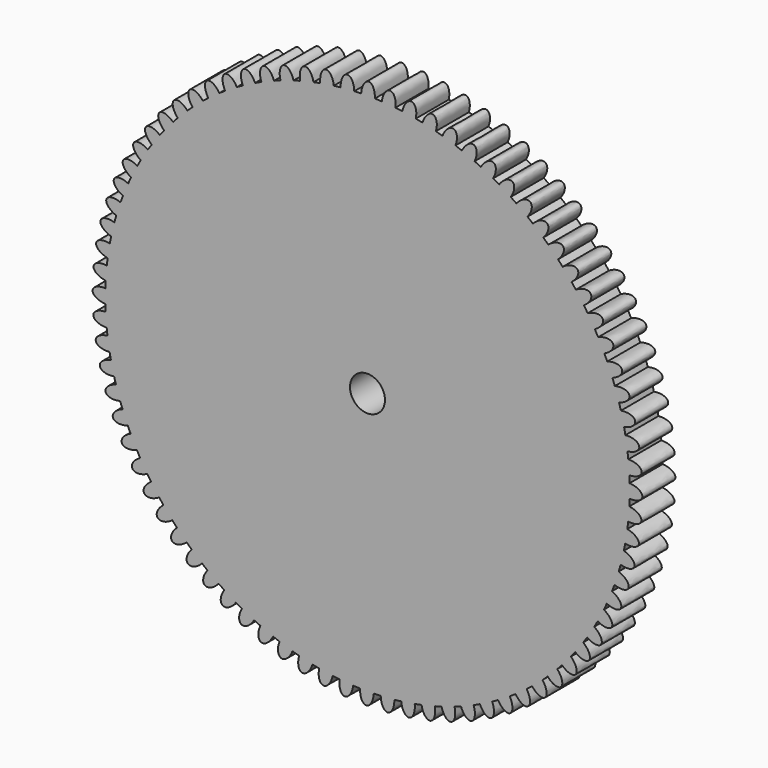
from build123d import *

# Parameters (mm, degrees)
F0_R     = 2.54
F1_DEPTH = 6


with BuildPart() as f1:
    # F0 (on Front) → F1 (new body)
    with BuildSketch(Plane.XZ):
        with BuildLine():
            ThreePointArc((39.5616919388, -20.4872330287), (39.5729927793, -19.9515721628), (39.5767599745, -19.4158053474))
            ThreePointArc((39.5767599745, -19.4158053474), (39.574005675, -18.957689604), (39.5657431748, -18.4996400962))
            ThreePointArc((39.5657431748, -18.4996400962), (39.5503559976, -17.9976072405), (39.5283520507, -17.4958208519))
            ThreePointArc((39.5283520507, -17.4958208519), (39.4653244385, -16.5039382547), (39.376446054, -15.5140371488))
            ThreePointArc((39.376446054, -15.5140371488), (39.3217172664, -15.0147591569), (39.2604114441, -14.5162460181))
            ThreePointArc((39.2604114441, -14.5162460181), (39.1197559133, -13.5323661533), (38.9534847656, -12.5524898999))
            ThreePointArc((38.9534847656, -12.5524898999), (38.8597517888, -12.0590449865), (38.7595220618, -11.5668785967))
            ThreePointArc((38.7595220618, -11.5668785967), (38.5421058006, -10.597067411), (38.2994670066, -9.6332572729))
            ThreePointArc((38.2994670066, -9.6332572729), (38.1673077356, -9.1486876902), (38.0287720535, -8.6659024188))
            ThreePointArc((38.0287720535, -8.6659024188), (37.7359355054, -7.7161391206), (37.4184250139, -6.7743373079))
            ThreePointArc((37.4184250139, -6.7743373079), (37.2486542546, -6.3016305883), (37.072666736, -5.8312029672))
            ThreePointArc((37.072666736, -5.8312029672), (36.7062153356, -4.907343163), (36.3157907044, -3.993356197))
            ThreePointArc((36.3157907044, -3.993356197), (36.10945515, -3.5354267348), (35.8971008164, -3.0802571066))
            ThreePointArc((35.8971008164, -3.0802571066), (35.4592938586, -2.1879966993), (34.9983621854, -1.3074596137))
            ThreePointArc((34.9983621854, -1.3074596137), (34.7567339631, -0.8671306961), (34.5093220496, -0.430025333))
            ThreePointArc((34.5093220496, -0.430025333), (34.0028587598, 0.4251345952), (33.4742618417, 1.2667929966))
            ThreePointArc((33.4742618417, 1.2667929966), (33.1988306698, 1.6868065952), (32.9178865531, 2.1031527934))
            ThreePointArc((32.9178865531, 2.1031527934), (32.345889446, 2.9159398972), (31.7528862587, 3.7135305104))
            ThreePointArc((31.7528862587, 3.7135305104), (31.4453502621, 4.1106392666), (31.1326060561, 4.503659387))
            ThreePointArc((31.1326060561, 4.503659387), (30.498601684, 5.2690625637), (29.8448482893, 6.0176679774))
            ThreePointArc((29.8448482893, 6.0176679774), (29.5071035296, 6.3894235836), (29.1644874064, 6.7566945266))
            ThreePointArc((29.1644874064, 6.7566945266), (28.4723846171, 7.4699948109), (27.7619116221, 8.1649996238))
            ThreePointArc((27.7619116221, 8.1649996238), (27.3960404081, 8.5091100831), (27.02566471, 8.8483675012))
            ThreePointArc((27.02566471, 8.8483675012), (26.2797305473, 9.5051671598), (25.5169182543, 10.1422864361))
            ThreePointArc((25.5169182543, 10.1422864361), (25.1251763037, 10.4566301931), (24.72932452, 10.7657824514))
            ThreePointArc((24.72932452, 10.7657824514), (23.9341579161, 11.362032096), (23.1237093165, 11.9373377834))
            ThreePointArc((23.1237093165, 11.9373377834), (22.7085118487, 12.2199768043), (22.2896245374, 12.4971178764))
            ThreePointArc((22.2896245374, 12.4971178764), (21.4501279588, 13.0291414296), (20.5970397378, 13.5390865774))
            ThreePointArc((20.5970397378, 13.5390865774), (20.1609465832, 13.7882782986), (19.7216063237, 14.0316995176))
            ThreePointArc((19.7216063237, 14.0316995176), (18.842955546, 14.4962168773), (17.9524872761, 14.937657504))
            ThreePointArc((17.9524872761, 14.937657504), (17.498187094, 15.1518655758), (17.0411025653, 15.3600661689))
            ThreePointArc((17.0411025653, 15.3600661689), (16.1287147627, 15.7542134312), (15.2063564769, 16.1244279085))
            ThreePointArc((15.2063564769, 16.1244279085), (14.7366501791, 16.3023316668), (14.2646394591, 16.4740280081))
            ThreePointArc((14.2646394591, 16.4740280081), (13.3241398058, 16.795375124), (12.3755781497, 17.0920809566))
            ThreePointArc((12.3755781497, 17.0920809566), (11.8933616316, 17.2325835656), (11.4093348235, 17.3667170902))
            ThreePointArc((11.4093348235, 17.3667170902), (10.4465218126, 17.6132828478), (9.4776049842, 17.8346507455))
            ThreePointArc((9.4776049842, 17.8346507455), (8.9858512711, 17.9368859599), (8.492792561, 18.0326296899))
            ThreePointArc((8.492792561, 18.0326296899), (7.513602255, 18.2028939294), (6.5303039487, 18.3475590856))
            ThreePointArc((6.5303039487, 18.3475590856), (6.0320448657, 18.4108965913), (5.5329941246, 18.4676602348))
            ThreePointArc((5.5329941246, 18.4676602348), (4.5434635572, 18.5605732205), (3.5518461341, 18.6276437264))
            ThreePointArc((3.5518461341, 18.6276437264), (3.0501536141, 18.6516930266), (2.5481876558, 18.6691266169))
            ThreePointArc((2.5481876558, 18.6691266169), (1.5544176121, 18.6841155094), (0.5605947233, 18.6731778529))
            ThreePointArc((0.5605947233, 18.6731778529), (0.0585618676, 18.6577906757), (-0.443224521, 18.6357867288))
            ThreePointArc((-0.443224521, 18.6357867288), (-1.4351071182, 18.5727591166), (-2.4250082241, 18.4838807321))
            ThreePointArc((-2.4250082241, 18.4838807321), (-2.924286216, 18.4291519445), (-3.4227993549, 18.3678461222))
            ThreePointArc((-3.4227993549, 18.3678461222), (-4.4066792196, 18.2271905914), (-5.3865554731, 18.0609194437))
            ThreePointArc((-5.3865554731, 18.0609194437), (-5.8800003864, 17.967186467), (-6.3721667762, 17.86695674))
            ThreePointArc((-6.3721667762, 17.86695674), (-7.3419779619, 17.6495404787), (-8.3057881, 17.4069016847))
            ThreePointArc((-8.3057881, 17.4069016847), (-8.7903576828, 17.2747424137), (-9.2731429541, 17.1362067316))
            ThreePointArc((-9.2731429541, 17.1362067316), (-10.2229062523, 16.8433701835), (-11.164708065, 16.525859692))
            ThreePointArc((-11.164708065, 16.525859692), (-11.6374147846, 16.3560889327), (-12.1078424057, 16.1801014141))
            ThreePointArc((-12.1078424057, 16.1801014141), (-13.0317022099, 15.8136500138), (-13.9456891759, 15.4232253826))
            ThreePointArc((-13.9456891759, 15.4232253826), (-14.4036186381, 15.2168898281), (-14.8587882663, 15.0045354945))
            ThreePointArc((-14.8587882663, 15.0045354945), (-15.7510486736, 14.5667285367), (-16.6315857593, 14.1057968635))
            ThreePointArc((-16.6315857593, 14.1057968635), (-17.0719146768, 13.8641686412), (-17.5090200399, 13.6167567277))
            ThreePointArc((-17.5090200399, 13.6167567277), (-18.3641799681, 13.110293438), (-19.2058383695, 12.5816965198))
            ThreePointArc((-19.2058383695, 12.5816965198), (-19.6258519681, 12.3062653479), (-20.0421981663, 12.0253212313))
            ThreePointArc((-20.0421981663, 12.0253212313), (-20.8549852701, 11.4533241242), (-21.6525758834, 10.8603209368))
            ThreePointArc((-21.6525758834, 10.8603209368), (-22.0496846395, 10.5527849402), (-22.44270476, 10.2400407342))
            ThreePointArc((-22.44270476, 10.2400407342), (-23.2081079366, 9.6060363621), (-23.9567133503, 8.9522829674))
            ThreePointArc((-23.9567133503, 8.9522829674), (-24.3284689565, 8.6145382077), (-24.6957398995, 8.2719220845))
            ThreePointArc((-24.6957398995, 8.2719220845), (-25.4090401839, 7.5798192952), (-26.1040449968, 6.8693463002))
            ThreePointArc((-26.1040449968, 6.8693463002), (-26.4481554561, 6.5034750862), (-26.7874128741, 6.1330993881))
            ThreePointArc((-26.7874128741, 6.1330993881), (-27.4442125327, 5.3871652254), (-28.081331809, 4.6243529324))
            ThreePointArc((-28.081331809, 4.6243529324), (-28.395675566, 4.2326109818), (-28.7048278243, 3.8367591982))
            ThreePointArc((-28.7048278243, 3.8367591982), (-29.3010774689, 3.0415925943), (-29.8763831564, 2.2311439947))
            ThreePointArc((-29.8763831564, 2.2311439947), (-30.1590221772, 1.8159465268), (-30.4361632493, 1.3970592155))
            ThreePointArc((-30.4361632493, 1.3970592155), (-30.9681868025, 0.5575626369), (-31.4781319503, -0.2955255841))
            ThreePointArc((-31.4781319503, -0.2955255841), (-31.7273236715, -0.7316187387), (-31.9707448905, -1.1709589982))
            ThreePointArc((-31.9707448905, -1.1709589982), (-32.4352622503, -2.0496097759), (-32.8767028769, -2.9400780458))
            ThreePointArc((-32.8767028769, -2.9400780458), (-33.0909109487, -3.3943782278), (-33.2991115418, -3.8514627566))
            ThreePointArc((-33.2991115418, -3.8514627566), (-33.6932588041, -4.7638505592), (-34.0634732814, -5.686208845))
            ThreePointArc((-34.0634732814, -5.686208845), (-34.2413770397, -6.1559151428), (-34.4130733811, -6.6279258628))
            ThreePointArc((-34.4130733811, -6.6279258628), (-34.7344204969, -7.5684255161), (-35.0311263295, -8.5169871722))
            ThreePointArc((-35.0311263295, -8.5169871722), (-35.1716289385, -8.9992036903), (-35.3057624631, -9.4832304984))
            ThreePointArc((-35.3057624631, -9.4832304984), (-35.5523282207, -10.4460435092), (-35.7736961184, -11.4149603377))
            ThreePointArc((-35.7736961184, -11.4149603377), (-35.8759313328, -11.9067140508), (-35.9716750629, -12.3997727609))
            ThreePointArc((-35.9716750629, -12.3997727609), (-36.1419393023, -13.3789630669), (-36.2866044585, -14.3622613732))
            ThreePointArc((-36.2866044585, -14.3622613732), (-36.3499419642, -14.8605204562), (-36.4067056077, -15.3595711973))
            ThreePointArc((-36.4067056077, -15.3595711973), (-36.4996185935, -16.3491017647), (-36.5666890993, -17.3407191878))
            ThreePointArc((-36.5666890993, -17.3407191878), (-36.5907383995, -17.8424117078), (-36.6081719898, -18.3443776661))
            ThreePointArc((-36.6081719898, -18.3443776661), (-36.6231608823, -19.3381477098), (-36.6122232258, -20.3319705986))
            ThreePointArc((-36.6122232258, -20.3319705986), (-36.5968360486, -20.8340034543), (-36.5748321018, -21.3357898429))
            ThreePointArc((-36.5748321018, -21.3357898429), (-36.5118044895, -22.3276724401), (-36.422926105, -23.317573546))
            ThreePointArc((-36.422926105, -23.317573546), (-36.3681973175, -23.8168515379), (-36.3068914952, -24.3153646767))
            ThreePointArc((-36.3068914952, -24.3153646767), (-36.1662359643, -25.2992445415), (-35.9999648166, -26.279120795))
            ThreePointArc((-35.9999648166, -26.279120795), (-35.9062318399, -26.7725657083), (-35.8060021129, -27.2647320981))
            ThreePointArc((-35.8060021129, -27.2647320981), (-35.5885858516, -28.2345432838), (-35.3459470576, -29.1983534219))
            ThreePointArc((-35.3459470576, -29.1983534219), (-35.2137877867, -29.6829230046), (-35.0752521046, -30.165708276))
            ThreePointArc((-35.0752521046, -30.165708276), (-34.7824155564, -31.1154715742), (-34.4649050649, -32.0572733869))
            ThreePointArc((-34.4649050649, -32.0572733869), (-34.2951343056, -32.5299801065), (-34.119146787, -33.0004077276))
            ThreePointArc((-34.119146787, -33.0004077276), (-33.7526953867, -33.9242675318), (-33.3622707555, -34.8382544978))
            ThreePointArc((-33.3622707555, -34.8382544978), (-33.155935201, -35.29618396), (-32.9435808674, -35.7513535882))
            ThreePointArc((-32.9435808674, -35.7513535882), (-32.5057739097, -36.6436139955), (-32.0448422364, -37.5241510811))
            ThreePointArc((-32.0448422364, -37.5241510811), (-31.8032140141, -37.9644799987), (-31.5558021006, -38.4015853618))
            ThreePointArc((-31.5558021006, -38.4015853618), (-31.0493388109, -39.25674529), (-30.5207418927, -40.0984036914))
            ThreePointArc((-30.5207418927, -40.0984036914), (-30.2453107209, -40.51841729), (-29.9643666042, -40.9347634882))
            ThreePointArc((-29.9643666042, -40.9347634882), (-29.3923694971, -41.747550592), (-28.7993663097, -42.5451412052))
            ThreePointArc((-28.7993663097, -42.5451412052), (-28.4918303131, -42.9422499614), (-28.1790861072, -43.3352700818))
            ThreePointArc((-28.1790861072, -43.3352700818), (-27.5450817351, -44.1006732585), (-26.8913283403, -44.8492786722))
            ThreePointArc((-26.8913283403, -44.8492786722), (-26.5535835806, -45.2210342784), (-26.2109674575, -45.5883052214))
            ThreePointArc((-26.2109674575, -45.5883052214), (-25.5188646682, -46.3016055057), (-24.8083916731, -46.9966103187))
            ThreePointArc((-24.8083916731, -46.9966103187), (-24.4425204591, -47.3407207779), (-24.0721447611, -47.679978196))
            ThreePointArc((-24.0721447611, -47.679978196), (-23.3262105984, -48.3367778546), (-22.5633983053, -48.9738971309))
            ThreePointArc((-22.5633983053, -48.9738971309), (-22.1716563547, -49.2882408879), (-21.7758045711, -49.5973931462))
            ThreePointArc((-21.7758045711, -49.5973931462), (-20.9806379672, -50.1936427908), (-20.1701893676, -50.7689484782))
            ThreePointArc((-20.1701893676, -50.7689484782), (-19.7549918998, -51.0515874991), (-19.3361045884, -51.3287285712))
            ThreePointArc((-19.3361045884, -51.3287285712), (-18.4966080098, -51.8607521244), (-17.6435197888, -52.3706972722))
            ThreePointArc((-17.6435197888, -52.3706972722), (-17.2074266342, -52.6198889934), (-16.7680863747, -52.8633102124))
            ThreePointArc((-16.7680863747, -52.8633102124), (-15.8894355971, -53.3278275721), (-14.9989673271, -53.7692681988))
            ThreePointArc((-14.9989673271, -53.7692681988), (-14.5446671451, -53.9834762706), (-14.0875826163, -54.1916768637))
            ThreePointArc((-14.0875826163, -54.1916768637), (-13.1751948137, -54.585824126), (-12.2528365279, -54.9560386033))
            ThreePointArc((-12.2528365279, -54.9560386033), (-11.7831302301, -55.1339423616), (-11.3111195101, -55.3056387029))
            ThreePointArc((-11.3111195101, -55.3056387029), (-10.3706198569, -55.6269858188), (-9.4220582007, -55.9236916514))
            ThreePointArc((-9.4220582007, -55.9236916514), (-8.9398416826, -56.0641942604), (-8.4558148745, -56.198327785))
            ThreePointArc((-8.4558148745, -56.198327785), (-7.4930018637, -56.4448935426), (-6.5240850352, -56.6662614403))
            ThreePointArc((-6.5240850352, -56.6662614403), (-6.0323313221, -56.7684966547), (-5.539272612, -56.8642403847))
            ThreePointArc((-5.539272612, -56.8642403847), (-4.560082306, -57.0345046242), (-3.5767839997, -57.1791697804))
            ThreePointArc((-3.5767839997, -57.1791697804), (-3.0785249167, -57.2425072861), (-2.5794741756, -57.2992709296))
            ThreePointArc((-2.5794741756, -57.2992709296), (-1.5899436083, -57.3921839153), (-0.5983261851, -57.4592544212))
            ThreePointArc((-0.5983261851, -57.4592544212), (-0.0966336652, -57.4833037214), (0.4053322932, -57.5007373117))
            ThreePointArc((0.4053322932, -57.5007373117), (1.3991023369, -57.5157262042), (2.3929252257, -57.5047885477))
            ThreePointArc((2.3929252257, -57.5047885477), (2.8949580814, -57.4894013705), (3.3967444699, -57.4673974236))
            ThreePointArc((3.3967444699, -57.4673974236), (4.3886270672, -57.4043698114), (5.3785281731, -57.3154914269))
            ThreePointArc((5.3785281731, -57.3154914269), (5.877806165, -57.2607626393), (6.3763193038, -57.199456817))
            ThreePointArc((6.3763193038, -57.199456817), (7.3601991686, -57.0588012862), (8.340075422, -56.8925301385))
            ThreePointArc((8.340075422, -56.8925301385), (8.8335203354, -56.7987971618), (9.3256867252, -56.6985674348))
            ThreePointArc((9.3256867252, -56.6985674348), (10.2954979109, -56.4811511735), (11.259308049, -56.2385123795))
            ThreePointArc((11.259308049, -56.2385123795), (11.7438776317, -56.1063531085), (12.226662903, -55.9678174264))
            ThreePointArc((12.226662903, -55.9678174264), (13.1764262013, -55.6749808783), (14.118228014, -55.3574703868))
            ThreePointArc((14.118228014, -55.3574703868), (14.5909347336, -55.1876996275), (15.0613623547, -55.0117121089))
            ThreePointArc((15.0613623547, -55.0117121089), (15.9852221589, -54.6452607086), (16.8992091249, -54.2548360774))
            ThreePointArc((16.8992091249, -54.2548360774), (17.3571385871, -54.0485005229), (17.8123082153, -53.8361461893))
            ThreePointArc((17.8123082153, -53.8361461893), (18.7045686225, -53.3983392315), (19.5851057082, -52.9374075583))
            ThreePointArc((19.5851057082, -52.9374075583), (20.0254346257, -52.695779336), (20.4625399889, -52.4483674225))
            ThreePointArc((20.4625399889, -52.4483674225), (21.3176999171, -51.9419041328), (22.1593583185, -51.4133072146))
            ThreePointArc((22.1593583185, -51.4133072146), (22.5793719171, -51.1378760427), (22.9957181152, -50.8569319261))
            ThreePointArc((22.9957181152, -50.8569319261), (23.808505219, -50.284934819), (24.6060958323, -49.6919316316))
            ThreePointArc((24.6060958323, -49.6919316316), (25.0032045885, -49.384395635), (25.3962247089, -49.071651429))
            ThreePointArc((25.3962247089, -49.071651429), (26.1616278855, -48.4376470569), (26.9102332993, -47.7838936622))
            ThreePointArc((26.9102332993, -47.7838936622), (27.2819889055, -47.4461489025), (27.6492598485, -47.1035327794))
            ThreePointArc((27.6492598485, -47.1035327794), (28.3625601328, -46.41142999), (29.0575649457, -45.700956995))
            ThreePointArc((29.0575649457, -45.700956995), (29.401675405, -45.335085781), (29.7409328231, -44.9647100829))
            ThreePointArc((29.7409328231, -44.9647100829), (30.3977324817, -44.2187759203), (31.034851758, -43.4559636272))
            ThreePointArc((31.034851758, -43.4559636272), (31.349195515, -43.0642216766), (31.6583477732, -42.668369893))
            ThreePointArc((31.6583477732, -42.668369893), (32.2545974178, -41.8732032891), (32.8299031053, -41.0627546895))
            ThreePointArc((32.8299031053, -41.0627546895), (33.1125421262, -40.6475572216), (33.3896831983, -40.2286699103))
            ThreePointArc((33.3896831983, -40.2286699103), (33.9217067515, -39.3891733317), (34.4316518993, -38.5360851107))
            ThreePointArc((34.4316518993, -38.5360851107), (34.6808436205, -38.0999919561), (34.9242648395, -37.6606516966))
            ThreePointArc((34.9242648395, -37.6606516966), (35.3887821992, -36.7820009189), (35.8302228259, -35.891532649))
            ThreePointArc((35.8302228259, -35.891532649), (36.0444308976, -35.437232467), (36.2526314908, -34.9801479382))
            ThreePointArc((36.2526314908, -34.9801479382), (36.646778753, -34.0677601356), (37.0169932303, -33.1454018498))
            ThreePointArc((37.0169932303, -33.1454018498), (37.1948969886, -32.675695552), (37.36659333, -32.203684832))
            ThreePointArc((37.36659333, -32.203684832), (37.6879404459, -31.2631851787), (37.9846462785, -30.3146235226))
            ThreePointArc((37.9846462785, -30.3146235226), (38.1251488875, -29.8324070045), (38.259282412, -29.3483801964))
            ThreePointArc((38.259282412, -29.3483801964), (38.5058481697, -28.3855671856), (38.7272160674, -27.4166503571))
            ThreePointArc((38.7272160674, -27.4166503571), (38.8294512818, -26.924896644), (38.9251950118, -26.4318379339))
            ThreePointArc((38.9251950118, -26.4318379339), (39.0954592513, -25.4526476279), (39.2401244075, -24.4693493216))
            ThreePointArc((39.2401244075, -24.4693493216), (39.3034619132, -23.9710902386), (39.3602255567, -23.4720394975))
            ThreePointArc((39.3602255567, -23.4720394975), (39.4531385424, -22.4825089301), (39.5202090483, -21.490891507))
            ThreePointArc((39.5202090483, -21.490891507), (39.5442583485, -20.989198987), (39.5616919388, -20.4872330287))
        make_face()
        with Locations((1.4767599745, -19.4158053474)):
            Circle(F0_R, mode=Mode.SUBTRACT)
        with BuildLine():
            ThreePointArc((39.5657431748, -18.4996400962), (39.574005675, -18.957689604), (39.5767599745, -19.4158053474))
            ThreePointArc((39.5767599745, -19.4158053474), (39.5729927793, -19.9515721628), (39.5616919388, -20.4872330287))
            add(Edge.make_bspline(
                [(39.5616919388, -20.4872330287), (41.4276455288, -20.6001162686), (41.4296854159, -19.5993192024), (41.4317253029, -18.5985221361), (39.5657431748, -18.4996400962)],
                knots=[1.6047124244, 1.6047124244, 1.6047124244, 3.1825038327, 3.1825038327, 4.7602952411, 4.7602952411, 4.7602952411], degree=2, weights=[1, 0.7046293265, 1, 0.7046293265, 1]))
        make_face()
        with BuildLine():
            ThreePointArc((39.376446054, -15.5140371488), (39.4653244385, -16.5039382547), (39.5283520507, -17.4958208519))
            add(Edge.make_bspline(
                [(39.5283520507, -17.4958208519), (41.3974102455, -17.4619550791), (41.3209222114, -16.4640830886), (41.2444341774, -15.466211098), (39.376446054, -15.5140371488)],
                knots=[1.6047124244, 1.6047124244, 1.6047124244, 3.1825038327, 3.1825038327, 4.7602952411, 4.7602952411, 4.7602952411], degree=2, weights=[1, 0.7046293265, 1, 0.7046293265, 1]))
        make_face()
        with BuildLine():
            add(Edge.make_bspline(
                [(39.3602255567, -23.4720394975), (41.2115703176, -23.7309757874), (41.2921255492, -22.7334238922), (41.3726807808, -21.735871997), (39.5202090483, -21.490891507)],
                knots=[1.6047124244, 1.6047124244, 1.6047124244, 3.1825038327, 3.1825038327, 4.7602952411, 4.7602952411, 4.7602952411], degree=2, weights=[1, 0.7046293265, 1, 0.7046293265, 1]))
            ThreePointArc((39.5202090483, -21.490891507), (39.4531385424, -22.4825089301), (39.3602255567, -23.4720394975))
        make_face()
        with BuildLine():
            ThreePointArc((38.9534847656, -12.5524898999), (39.1197559133, -13.5323661533), (39.2604114441, -14.5162460181))
            add(Edge.make_bspline(
                [(39.2604114441, -14.5162460181), (41.1210508783, -14.3358400263), (40.9665064973, -13.3470453241), (40.8119621163, -12.3582506218), (38.9534847656, -12.5524898999)],
                knots=[1.6047124244, 1.6047124244, 1.6047124244, 3.1825038327, 3.1825038327, 4.7602952411, 4.7602952411, 4.7602952411], degree=2, weights=[1, 0.7046293265, 1, 0.7046293265, 1]))
        make_face()
        with BuildLine():
            add(Edge.make_bspline(
                [(38.9251950118, -26.4318379339), (40.7505167875, -26.8352308454), (40.9090907139, -25.8470743605), (41.0676646402, -24.8589178755), (39.2401244075, -24.4693493216)],
                knots=[1.6047124244, 1.6047124244, 1.6047124244, 3.1825038327, 3.1825038327, 4.7602952411, 4.7602952411, 4.7602952411], degree=2, weights=[1, 0.7046293265, 1, 0.7046293265, 1]))
            ThreePointArc((39.2401244075, -24.4693493216), (39.0954592513, -25.4526476279), (38.9251950118, -26.4318379339))
        make_face()
        with BuildLine():
            ThreePointArc((38.2994670066, -9.6332572729), (38.5421058006, -10.597067411), (38.7595220618, -11.5668785967))
            add(Edge.make_bspline(
                [(38.7595220618, -11.5668785967), (40.6002712746, -11.2410446489), (40.3686233642, -10.2674234832), (40.1369754538, -9.2938023174), (38.2994670066, -9.6332572729)],
                knots=[1.6047124244, 1.6047124244, 1.6047124244, 3.1825038327, 3.1825038327, 4.7602952411, 4.7602952411, 4.7602952411], degree=2, weights=[1, 0.7046293265, 1, 0.7046293265, 1]))
        make_face()
        with BuildLine():
            add(Edge.make_bspline(
                [(38.259282412, -29.3483801964), (40.0473274868, -29.8937426781), (40.2829424469, -28.9210739167), (40.518557407, -27.9484051553), (38.7272160674, -27.4166503571)],
                knots=[1.6047124244, 1.6047124244, 1.6047124244, 3.1825038327, 3.1825038327, 4.7602952411, 4.7602952411, 4.7602952411], degree=2, weights=[1, 0.7046293265, 1, 0.7046293265, 1]))
            ThreePointArc((38.7272160674, -27.4166503571), (38.5058481697, -28.3855671856), (38.259282412, -29.3483801964))
        make_face()
        with BuildLine():
            ThreePointArc((37.4184250139, -6.7743373079), (37.7359355054, -7.7161391206), (38.0287720535, -8.6659024188))
            add(Edge.make_bspline(
                [(38.0287720535, -8.6659024188), (39.8382822139, -8.1966493897), (39.5309589604, -7.2442044586), (39.2236357069, -6.2917595275), (37.4184250139, -6.7743373079)],
                knots=[1.6047124244, 1.6047124244, 1.6047124244, 3.1825038327, 3.1825038327, 4.7602952411, 4.7602952411, 4.7602952411], degree=2, weights=[1, 0.7046293265, 1, 0.7046293265, 1]))
        make_face()
        with BuildLine():
            add(Edge.make_bspline(
                [(37.36659333, -32.203684832), (39.1063378114, -32.8876545429), (39.4175411607, -31.9364703314), (39.7287445099, -30.9852861198), (37.9846462785, -30.3146235226)],
                knots=[1.6047124244, 1.6047124244, 1.6047124244, 3.1825038327, 3.1825038327, 4.7602952411, 4.7602952411, 4.7602952411], degree=2, weights=[1, 0.7046293265, 1, 0.7046293265, 1]))
            ThreePointArc((37.9846462785, -30.3146235226), (37.6879404459, -31.2631851787), (37.36659333, -32.203684832))
        make_face()
        with BuildLine():
            ThreePointArc((36.3157907044, -3.993356197), (36.7062153356, -4.907343163), (37.072666736, -5.8312029672))
            add(Edge.make_bspline(
                [(37.072666736, -5.8312029672), (38.8397816121, -5.2214239576), (38.4586777656, -4.296027401), (38.0775739191, -3.3706308443), (36.3157907044, -3.993356197)],
                knots=[1.6047124244, 1.6047124244, 1.6047124244, 3.1825038327, 3.1825038327, 4.7602952411, 4.7602952411, 4.7602952411], degree=2, weights=[1, 0.7046293265, 1, 0.7046293265, 1]))
        make_face()
        with BuildLine():
            add(Edge.make_bspline(
                [(36.2526314908, -34.9801479382), (37.9333492755, -35.7985079775), (38.3182223418, -34.8746726829), (38.7030954081, -33.9508373882), (37.0169932303, -33.1454018498)],
                knots=[1.6047124244, 1.6047124244, 1.6047124244, 3.1825038327, 3.1825038327, 4.7602952411, 4.7602952411, 4.7602952411], degree=2, weights=[1, 0.7046293265, 1, 0.7046293265, 1]))
            ThreePointArc((37.0169932303, -33.1454018498), (36.646778753, -34.0677601356), (36.2526314908, -34.9801479382))
        make_face()
        with BuildLine():
            ThreePointArc((34.9983621854, -1.3074596137), (35.4592938586, -2.1879966993), (35.8971008164, -3.0802571066))
            add(Edge.make_bspline(
                [(35.8971008164, -3.0802571066), (37.6109255574, -2.333711607), (37.1583907499, -1.4410688023), (36.7058559423, -0.5484259975), (34.9983621854, -1.3074596137)],
                knots=[1.6047124244, 1.6047124244, 1.6047124244, 3.1825038327, 3.1825038327, 4.7602952411, 4.7602952411, 4.7602952411], degree=2, weights=[1, 0.7046293265, 1, 0.7046293265, 1]))
        make_face()
        with BuildLine():
            add(Edge.make_bspline(
                [(34.9242648395, -37.6606516966), (36.5355937435, -38.6083566027), (36.9917636564, -37.7175659766), (37.4479335694, -36.8267753506), (35.8302228259, -35.891532649)],
                knots=[1.6047124244, 1.6047124244, 1.6047124244, 3.1825038327, 3.1825038327, 4.7602952411, 4.7602952411, 4.7602952411], degree=2, weights=[1, 0.7046293265, 1, 0.7046293265, 1]))
            ThreePointArc((35.8302228259, -35.891532649), (35.3887821992, -36.7820009189), (34.9242648395, -37.6606516966))
        make_face()
        with BuildLine():
            ThreePointArc((33.4742618417, 1.2667929966), (34.0028587598, 0.4251345952), (34.5093220496, -0.430025333))
            add(Edge.make_bspline(
                [(34.5093220496, -0.430025333), (36.1592903561, 0.4486839554), (35.6381146151, 1.3030695685), (35.116938874, 2.1574551816), (33.4742618417, 1.2667929966)],
                knots=[1.6047124244, 1.6047124244, 1.6047124244, 3.1825038327, 3.1825038327, 4.7602952411, 4.7602952411, 4.7602952411], degree=2, weights=[1, 0.7046293265, 1, 0.7046293265, 1]))
        make_face()
        with BuildLine():
            add(Edge.make_bspline(
                [(33.3896831983, -40.2286699103), (34.9216888431, -41.2998767671), (35.4463431634, -40.4476228302), (35.9709974837, -39.5953688932), (34.4316518993, -38.5360851107)],
                knots=[1.6047124244, 1.6047124244, 1.6047124244, 3.1825038327, 3.1825038327, 4.7602952411, 4.7602952411, 4.7602952411], degree=2, weights=[1, 0.7046293265, 1, 0.7046293265, 1]))
            ThreePointArc((34.4316518993, -38.5360851107), (33.9217067515, -39.3891733317), (33.3896831983, -40.2286699103))
        make_face()
        with BuildLine():
            ThreePointArc((31.7528862587, 3.7135305104), (32.345889446, 2.9159398972), (32.9178865531, 2.1031527934))
            add(Edge.make_bspline(
                [(32.9178865531, 2.1031527934), (34.4938258218, 3.1086083356), (33.9072223691, 3.9194691856), (33.3206189163, 4.7303300356), (31.7528862587, 3.7135305104)],
                knots=[1.6047124244, 1.6047124244, 1.6047124244, 3.1825038327, 3.1825038327, 4.7602952411, 4.7602952411, 4.7602952411], degree=2, weights=[1, 0.7046293265, 1, 0.7046293265, 1]))
        make_face()
        with BuildLine():
            add(Edge.make_bspline(
                [(31.6583477732, -42.668369893), (33.1015848347, -43.8564743541), (33.691488894, -43.0480115351), (34.2813929534, -42.2395487162), (32.8299031053, -41.0627546895)],
                knots=[1.6047124244, 1.6047124244, 1.6047124244, 3.1825038327, 3.1825038327, 4.7602952411, 4.7602952411, 4.7602952411], degree=2, weights=[1, 0.7046293265, 1, 0.7046293265, 1]))
            ThreePointArc((32.8299031053, -41.0627546895), (32.2545974178, -41.8732032891), (31.6583477732, -42.668369893))
        make_face()
        with BuildLine():
            ThreePointArc((29.8448482893, 6.0176679774), (30.498601684, 5.2690625637), (31.1326060561, 4.503659387))
            add(Edge.make_bspline(
                [(31.1326060561, 4.503659387), (32.6248000973, 5.6296622153), (31.9763855382, 6.3919990755), (31.3279709791, 7.1543359357), (29.8448482893, 6.0176679774)],
                knots=[1.6047124244, 1.6047124244, 1.6047124244, 3.1825038327, 3.1825038327, 4.7602952411, 4.7602952411, 4.7602952411], degree=2, weights=[1, 0.7046293265, 1, 0.7046293265, 1]))
        make_face()
        with BuildLine():
            add(Edge.make_bspline(
                [(29.7409328231, -44.9647100829), (31.0865032646, -46.2623870893), (31.7380201083, -45.5026998305), (32.3895369521, -44.7430125716), (31.034851758, -43.4559636272)],
                knots=[1.6047124244, 1.6047124244, 1.6047124244, 3.1825038327, 3.1825038327, 4.7602952411, 4.7602952411, 4.7602952411], degree=2, weights=[1, 0.7046293265, 1, 0.7046293265, 1]))
            ThreePointArc((31.034851758, -43.4559636272), (30.3977324817, -44.2187759203), (29.7409328231, -44.9647100829))
        make_face()
        with BuildLine():
            ThreePointArc((27.7619116221, 8.1649996238), (28.4723846171, 7.4699948109), (29.1644874064, 6.7566945266))
            add(Edge.make_bspline(
                [(29.1644874064, 6.7566945266), (30.5637363477, 7.9963024591), (29.8575083736, 8.7054152692), (29.1512803995, 9.4145280793), (27.7619116221, 8.1649996238)],
                knots=[1.6047124244, 1.6047124244, 1.6047124244, 3.1825038327, 3.1825038327, 4.7602952411, 4.7602952411, 4.7602952411], degree=2, weights=[1, 0.7046293265, 1, 0.7046293265, 1]))
        make_face()
        with BuildLine():
            add(Edge.make_bspline(
                [(27.6492598485, -47.1035327794), (28.8888677809, -48.5027817206), (29.597980591, -47.7965537465), (30.3070934011, -47.0903257724), (29.0575649457, -45.700956995)],
                knots=[1.6047124244, 1.6047124244, 1.6047124244, 3.1825038327, 3.1825038327, 4.7602952411, 4.7602952411, 4.7602952411], degree=2, weights=[1, 0.7046293265, 1, 0.7046293265, 1]))
            ThreePointArc((29.0575649457, -45.700956995), (28.3625601328, -46.41142999), (27.6492598485, -47.1035327794))
        make_face()
        with BuildLine():
            ThreePointArc((25.5169182543, 10.1422864361), (26.2797305473, 9.5051671598), (27.02566471, 8.8483675012))
            add(Edge.make_bspline(
                [(27.02566471, 8.8483675012), (28.3233417164, 10.1939379427), (27.5636544575, 10.8454547865), (26.8039671987, 11.4969716302), (25.5169182543, 10.1422864361)],
                knots=[1.6047124244, 1.6047124244, 1.6047124244, 3.1825038327, 3.1825038327, 4.7602952411, 4.7602952411, 4.7602952411], degree=2, weights=[1, 0.7046293265, 1, 0.7046293265, 1]))
        make_face()
        with BuildLine():
            add(Edge.make_bspline(
                [(25.3962247089, -49.071651429), (26.5222275372, -50.5638454703), (27.2845643974, -49.9154309111), (28.0469012576, -49.267016352), (26.9102332993, -47.7838936622)],
                knots=[1.6047124244, 1.6047124244, 1.6047124244, 3.1825038327, 3.1825038327, 4.7602952411, 4.7602952411, 4.7602952411], degree=2, weights=[1, 0.7046293265, 1, 0.7046293265, 1]))
            ThreePointArc((26.9102332993, -47.7838936622), (26.1616278855, -48.4376470569), (25.3962247089, -49.071651429))
        make_face()
        with BuildLine():
            ThreePointArc((23.1237093165, 11.9373377834), (23.9341579161, 11.362032096), (24.72932452, 10.7657824514))
            add(Edge.make_bspline(
                [(24.72932452, 10.7657824514), (25.9174289812, 12.2090195128), (25.1089661622, 12.7989235721), (24.3005033433, 13.3888276315), (23.1237093165, 11.9373377834)],
                knots=[1.6047124244, 1.6047124244, 1.6047124244, 3.1825038327, 3.1825038327, 4.7602952411, 4.7602952411, 4.7602952411], degree=2, weights=[1, 0.7046293265, 1, 0.7046293265, 1]))
        make_face()
        with BuildLine():
            add(Edge.make_bspline(
                [(22.9957181152, -50.8569319261), (24.0011736575, -52.4328711948), (24.8120345075, -51.846267742), (25.6228953575, -51.2596642892), (24.6060958323, -49.6919316316)],
                knots=[1.6047124244, 1.6047124244, 1.6047124244, 3.1825038327, 3.1825038327, 4.7602952411, 4.7602952411, 4.7602952411], degree=2, weights=[1, 0.7046293265, 1, 0.7046293265, 1]))
            ThreePointArc((24.6060958323, -49.6919316316), (23.808505219, -50.284934819), (22.9957181152, -50.8569319261))
        make_face()
        with BuildLine():
            ThreePointArc((20.5970397378, 13.5390865774), (21.4501279588, 13.0291414296), (22.2896245374, 12.4971178764))
            add(Edge.make_bspline(
                [(22.2896245374, 12.4971178764), (23.3608313942, 14.0291235212), (22.5085774572, 14.5537778415), (21.6563235203, 15.0784321619), (20.5970397378, 13.5390865774)],
                knots=[1.6047124244, 1.6047124244, 1.6047124244, 3.1825038327, 3.1825038327, 4.7602952411, 4.7602952411, 4.7602952411], degree=2, weights=[1, 0.7046293265, 1, 0.7046293265, 1]))
        make_face()
        with BuildLine():
            add(Edge.make_bspline(
                [(20.4625399889, -52.4483674225), (21.3412492773, -54.098335729), (22.1956348904, -53.577159988), (23.0500205034, -53.055984247), (22.1593583185, -51.4133072146)],
                knots=[1.6047124244, 1.6047124244, 1.6047124244, 3.1825038327, 3.1825038327, 4.7602952411, 4.7602952411, 4.7602952411], degree=2, weights=[1, 0.7046293265, 1, 0.7046293265, 1]))
            ThreePointArc((22.1593583185, -51.4133072146), (21.3176999171, -51.9419041328), (20.4625399889, -52.4483674225))
        make_face()
        with BuildLine():
            ThreePointArc((17.9524872761, 14.937657504), (18.842955546, 14.4962168773), (19.7216063237, 14.0316995176))
            add(Edge.make_bspline(
                [(19.7216063237, 14.0316995176), (20.6693112297, 15.6430284216), (19.7785206037, 16.0991983346), (18.8877299777, 16.5553682475), (17.9524872761, 14.937657504)],
                knots=[1.6047124244, 1.6047124244, 1.6047124244, 3.1825038327, 3.1825038327, 4.7602952411, 4.7602952411, 4.7602952411], degree=2, weights=[1, 0.7046293265, 1, 0.7046293265, 1]))
        make_face()
        with BuildLine():
            add(Edge.make_bspline(
                [(17.8123082153, -53.8361461893), (18.5588537149, -55.5499709303), (19.4514965196, -55.0974361228), (20.3441393244, -54.6449013153), (19.5851057082, -52.9374075583)],
                knots=[1.6047124244, 1.6047124244, 1.6047124244, 3.1825038327, 3.1825038327, 4.7602952411, 4.7602952411, 4.7602952411], degree=2, weights=[1, 0.7046293265, 1, 0.7046293265, 1]))
            ThreePointArc((19.5851057082, -52.9374075583), (18.7045686225, -53.3983392315), (17.8123082153, -53.8361461893))
        make_face()
        with BuildLine():
            ThreePointArc((15.2063564769, 16.1244279085), (16.1287147627, 15.7542134312), (17.0411025653, 15.3600661689))
            add(Edge.make_bspline(
                [(17.0411025653, 15.3600661689), (17.8594626046, 17.0407839536), (16.9356273099, 17.4256570199), (16.0117920152, 17.8105300862), (15.2063564769, 16.1244279085)],
                knots=[1.6047124244, 1.6047124244, 1.6047124244, 3.1825038327, 3.1825038327, 4.7602952411, 4.7602952411, 4.7602952411], degree=2, weights=[1, 0.7046293265, 1, 0.7046293265, 1]))
        make_face()
        with BuildLine():
            add(Edge.make_bspline(
                [(15.0613623547, -55.0117121089), (15.6711413642, -56.778826985), (16.5965379209, -56.3977231385), (17.5219344775, -56.016619292), (16.8992091249, -54.2548360774)],
                knots=[1.6047124244, 1.6047124244, 1.6047124244, 3.1825038327, 3.1825038327, 4.7602952411, 4.7602952411, 4.7602952411], degree=2, weights=[1, 0.7046293265, 1, 0.7046293265, 1]))
            ThreePointArc((16.8992091249, -54.2548360774), (15.9852221589, -54.6452607086), (15.0613623547, -55.0117121089))
        make_face()
        with BuildLine():
            ThreePointArc((12.3755781497, 17.0920809566), (13.3241398058, 16.795375124), (14.2646394591, 16.4740280081))
            add(Edge.make_bspline(
                [(14.2646394591, 16.4740280081), (14.94860917, 18.2137724895), (13.9974249584, 18.5249758388), (13.0462407469, 18.8361791881), (12.3755781497, 17.0920809566)],
                knots=[1.6047124244, 1.6047124244, 1.6047124244, 3.1825038327, 3.1825038327, 4.7602952411, 4.7602952411, 4.7602952411], degree=2, weights=[1, 0.7046293265, 1, 0.7046293265, 1]))
        make_face()
        with BuildLine():
            add(Edge.make_bspline(
                [(12.226662903, -55.9678174264), (12.6959159322, -57.7773275869), (13.6483608633, -57.4700043334), (14.6008057944, -57.1626810799), (14.118228014, -55.3574703868)],
                knots=[1.6047124244, 1.6047124244, 1.6047124244, 3.1825038327, 3.1825038327, 4.7602952411, 4.7602952411, 4.7602952411], degree=2, weights=[1, 0.7046293265, 1, 0.7046293265, 1]))
            ThreePointArc((14.118228014, -55.3574703868), (13.1764262013, -55.6749808783), (12.226662903, -55.9678174264))
        make_face()
        with BuildLine():
            ThreePointArc((9.4776049842, 17.8346507455), (10.4465218126, 17.6132828478), (11.4093348235, 17.3667170902))
            add(Edge.make_bspline(
                [(11.4093348235, 17.3667170902), (11.9546973052, 19.1547621649), (10.9820285438, 19.390377125), (10.0093597823, 19.6259920851), (9.4776049842, 17.8346507455)],
                knots=[1.6047124244, 1.6047124244, 1.6047124244, 3.1825038327, 3.1825038327, 4.7602952411, 4.7602952411, 4.7602952411], degree=2, weights=[1, 0.7046293265, 1, 0.7046293265, 1]))
        make_face()
        with BuildLine():
            add(Edge.make_bspline(
                [(9.3256867252, -56.6985674348), (9.6515206729, -58.5393166476), (10.6251418387, -58.3076687371), (11.5987630045, -58.0760208267), (11.259308049, -56.2385123795)],
                knots=[1.6047124244, 1.6047124244, 1.6047124244, 3.1825038327, 3.1825038327, 4.7602952411, 4.7602952411, 4.7602952411], degree=2, weights=[1, 0.7046293265, 1, 0.7046293265, 1]))
            ThreePointArc((11.259308049, -56.2385123795), (10.2954979109, -56.4811511735), (9.3256867252, -56.6985674348))
        make_face()
        with BuildLine():
            ThreePointArc((6.5303039487, 18.3475590856), (7.513602255, 18.2028939294), (8.492792561, 18.0326296899))
            add(Edge.make_bspline(
                [(8.492792561, 18.0326296899), (8.8961854725, 19.8579514656), (7.9080289876, 20.016525392), (6.9198725026, 20.1750993183), (6.5303039487, 18.3475590856)],
                knots=[1.6047124244, 1.6047124244, 1.6047124244, 3.1825038327, 3.1825038327, 4.7602952411, 4.7602952411, 4.7602952411], degree=2, weights=[1, 0.7046293265, 1, 0.7046293265, 1]))
        make_face()
        with BuildLine():
            add(Edge.make_bspline(
                [(6.3763193038, -57.199456817), (6.5567252956, -59.0600962512), (7.5455199978, -58.9055518702), (8.5343147001, -58.7510074892), (8.340075422, -56.8925301385)],
                knots=[1.6047124244, 1.6047124244, 1.6047124244, 3.1825038327, 3.1825038327, 4.7602952411, 4.7602952411, 4.7602952411], degree=2, weights=[1, 0.7046293265, 1, 0.7046293265, 1]))
            ThreePointArc((8.340075422, -56.8925301385), (7.3601991686, -57.0588012862), (6.3763193038, -57.199456817))
        make_face()
        with BuildLine():
            ThreePointArc((3.5518461341, 18.6276437264), (4.5434635572, 18.5605732205), (5.5329941246, 18.4676602348))
            add(Edge.make_bspline(
                [(5.5329941246, 18.4676602348), (5.7919304144, 20.3190049957), (4.7943785193, 20.3995602273), (3.7968266241, 20.4801154589), (3.5518461341, 18.6276437264)],
                knots=[1.6047124244, 1.6047124244, 1.6047124244, 3.1825038327, 3.1825038327, 4.7602952411, 4.7602952411, 4.7602952411], degree=2, weights=[1, 0.7046293265, 1, 0.7046293265, 1]))
        make_face()
        with BuildLine():
            add(Edge.make_bspline(
                [(3.3967444699, -57.4673974236), (3.4306102428, -59.3364556184), (4.4284822333, -59.2599675844), (5.4263542239, -59.1834795503), (5.3785281731, -57.3154914269)],
                knots=[1.6047124244, 1.6047124244, 1.6047124244, 3.1825038327, 3.1825038327, 4.7602952411, 4.7602952411, 4.7602952411], degree=2, weights=[1, 0.7046293265, 1, 0.7046293265, 1]))
            ThreePointArc((5.3785281731, -57.3154914269), (4.3886270672, -57.4043698114), (3.3967444699, -57.4673974236))
        make_face()
        with BuildLine():
            ThreePointArc((0.5605947233, 18.6731778529), (1.5544176121, 18.6841155094), (2.5481876558, 18.6691266169))
            add(Edge.make_bspline(
                [(2.5481876558, 18.6691266169), (2.6610708956, 20.5350802069), (1.6602738294, 20.537120094), (0.6594767632, 20.539159981), (0.5605947233, 18.6731778529)],
                knots=[1.6047124244, 1.6047124244, 1.6047124244, 3.1825038327, 3.1825038327, 4.7602952411, 4.7602952411, 4.7602952411], degree=2, weights=[1, 0.7046293265, 1, 0.7046293265, 1]))
        make_face()
        with BuildLine():
            add(Edge.make_bspline(
                [(0.4053322932, -57.5007373117), (0.2924490533, -59.3666909017), (1.2932461195, -59.3687307888), (2.2940431857, -59.3707706758), (2.3929252257, -57.5047885477)],
                knots=[1.6047124244, 1.6047124244, 1.6047124244, 3.1825038327, 3.1825038327, 4.7602952411, 4.7602952411, 4.7602952411], degree=2, weights=[1, 0.7046293265, 1, 0.7046293265, 1]))
            ThreePointArc((2.3929252257, -57.5047885477), (1.3991023369, -57.5157262042), (0.4053322932, -57.5007373117))
        make_face()
        with BuildLine():
            ThreePointArc((-2.4250082241, 18.4838807321), (-1.4351071182, 18.5727591166), (-0.443224521, 18.6357867288))
            add(Edge.make_bspline(
                [(-0.443224521, 18.6357867288), (-0.4770902938, 20.5048449236), (-1.4749622844, 20.4283568896), (-2.4728342749, 20.3518688555), (-2.4250082241, 18.4838807321)],
                knots=[1.6047124244, 1.6047124244, 1.6047124244, 3.1825038327, 3.1825038327, 4.7602952411, 4.7602952411, 4.7602952411], degree=2, weights=[1, 0.7046293265, 1, 0.7046293265, 1]))
        make_face()
        with BuildLine():
            add(Edge.make_bspline(
                [(-2.5794741756, -57.2992709296), (-2.8384104655, -59.1506156905), (-1.8408585703, -59.2311709221), (-0.8433066751, -59.3117261537), (-0.5983261851, -57.4592544212)],
                knots=[1.6047124244, 1.6047124244, 1.6047124244, 3.1825038327, 3.1825038327, 4.7602952411, 4.7602952411, 4.7602952411], degree=2, weights=[1, 0.7046293265, 1, 0.7046293265, 1]))
            ThreePointArc((-0.5983261851, -57.4592544212), (-1.5899436083, -57.3921839153), (-2.5794741756, -57.2992709296))
        make_face()
        with BuildLine():
            ThreePointArc((-5.3865554731, 18.0609194437), (-4.4066792196, 18.2271905914), (-3.4227993549, 18.3678461222))
            add(Edge.make_bspline(
                [(-3.4227993549, 18.3678461222), (-3.6032053466, 20.2284855564), (-4.5920000489, 20.0739411754), (-5.5807947511, 19.9193967944), (-5.3865554731, 18.0609194437)],
                knots=[1.6047124244, 1.6047124244, 1.6047124244, 3.1825038327, 3.1825038327, 4.7602952411, 4.7602952411, 4.7602952411], degree=2, weights=[1, 0.7046293265, 1, 0.7046293265, 1]))
        make_face()
        with BuildLine():
            add(Edge.make_bspline(
                [(-5.539272612, -56.8642403847), (-5.9426655236, -58.6895621604), (-4.9545090386, -58.8481360868), (-3.9663525536, -59.0067100131), (-3.5767839997, -57.1791697804)],
                knots=[1.6047124244, 1.6047124244, 1.6047124244, 3.1825038327, 3.1825038327, 4.7602952411, 4.7602952411, 4.7602952411], degree=2, weights=[1, 0.7046293265, 1, 0.7046293265, 1]))
            ThreePointArc((-3.5767839997, -57.1791697804), (-4.560082306, -57.0345046242), (-5.539272612, -56.8642403847))
        make_face()
        with BuildLine():
            ThreePointArc((-8.3057881, 17.4069016847), (-7.3419779619, 17.6495404787), (-6.3721667762, 17.86695674))
            add(Edge.make_bspline(
                [(-6.3721667762, 17.86695674), (-6.698000724, 19.7077059528), (-7.6716218898, 19.4760580423), (-8.6452430556, 19.2444101319), (-8.3057881, 17.4069016847)],
                knots=[1.6047124244, 1.6047124244, 1.6047124244, 3.1825038327, 3.1825038327, 4.7602952411, 4.7602952411, 4.7602952411], degree=2, weights=[1, 0.7046293265, 1, 0.7046293265, 1]))
        make_face()
        with BuildLine():
            add(Edge.make_bspline(
                [(-8.4558148745, -56.198327785), (-9.0011773563, -57.9863728598), (-8.0285085948, -58.2219878198), (-7.0558398334, -58.4576027799), (-6.5240850352, -56.6662614403)],
                knots=[1.6047124244, 1.6047124244, 1.6047124244, 3.1825038327, 3.1825038327, 4.7602952411, 4.7602952411, 4.7602952411], degree=2, weights=[1, 0.7046293265, 1, 0.7046293265, 1]))
            ThreePointArc((-6.5240850352, -56.6662614403), (-7.4930018637, -56.4448935426), (-8.4558148745, -56.198327785))
        make_face()
        with BuildLine():
            ThreePointArc((-11.164708065, 16.525859692), (-10.2229062523, 16.8433701835), (-9.2731429541, 17.1362067316))
            add(Edge.make_bspline(
                [(-9.2731429541, 17.1362067316), (-9.7423959832, 18.945716892), (-10.6948409143, 18.6383936386), (-11.6472858454, 18.3310703851), (-11.164708065, 16.525859692)],
                knots=[1.6047124244, 1.6047124244, 1.6047124244, 3.1825038327, 3.1825038327, 4.7602952411, 4.7602952411, 4.7602952411], degree=2, weights=[1, 0.7046293265, 1, 0.7046293265, 1]))
        make_face()
        with BuildLine():
            add(Edge.make_bspline(
                [(-11.3111195101, -55.3056387029), (-11.995089221, -57.0453831843), (-11.0439050095, -57.3565865336), (-10.0927207979, -57.6677898829), (-9.4220582007, -55.9236916514)],
                knots=[1.6047124244, 1.6047124244, 1.6047124244, 3.1825038327, 3.1825038327, 4.7602952411, 4.7602952411, 4.7602952411], degree=2, weights=[1, 0.7046293265, 1, 0.7046293265, 1]))
            ThreePointArc((-9.4220582007, -55.9236916514), (-10.3706198569, -55.6269858188), (-11.3111195101, -55.3056387029))
        make_face()
        with BuildLine():
            ThreePointArc((-13.9456891759, 15.4232253826), (-13.0317022099, 15.8136500138), (-12.1078424057, 16.1801014141))
            add(Edge.make_bspline(
                [(-12.1078424057, 16.1801014141), (-12.7176214153, 17.9472162902), (-13.6430179719, 17.5661124437), (-14.5684145286, 17.1850085972), (-13.9456891759, 15.4232253826)],
                knots=[1.6047124244, 1.6047124244, 1.6047124244, 3.1825038327, 3.1825038327, 4.7602952411, 4.7602952411, 4.7602952411], degree=2, weights=[1, 0.7046293265, 1, 0.7046293265, 1]))
        make_face()
        with BuildLine():
            add(Edge.make_bspline(
                [(-14.0875826163, -54.1916768637), (-14.9059426557, -55.8723946484), (-13.982107361, -56.2572677147), (-13.0582720663, -56.6421407811), (-12.2528365279, -54.9560386033)],
                knots=[1.6047124244, 1.6047124244, 1.6047124244, 3.1825038327, 3.1825038327, 4.7602952411, 4.7602952411, 4.7602952411], degree=2, weights=[1, 0.7046293265, 1, 0.7046293265, 1]))
            ThreePointArc((-12.2528365279, -54.9560386033), (-13.1751948137, -54.585824126), (-14.0875826163, -54.1916768637))
        make_face()
        with BuildLine():
            ThreePointArc((-16.6315857593, 14.1057968635), (-15.7510486736, 14.5667285367), (-14.8587882663, 15.0045354945))
            add(Edge.make_bspline(
                [(-14.8587882663, 15.0045354945), (-15.6053337659, 16.7183602355), (-16.4979765707, 16.265825428), (-17.3906193754, 15.8132906205), (-16.6315857593, 14.1057968635)],
                knots=[1.6047124244, 1.6047124244, 1.6047124244, 3.1825038327, 3.1825038327, 4.7602952411, 4.7602952411, 4.7602952411], degree=2, weights=[1, 0.7046293265, 1, 0.7046293265, 1]))
        make_face()
        with BuildLine():
            add(Edge.make_bspline(
                [(-16.7680863747, -52.8633102124), (-17.7157912808, -54.4746391164), (-16.8250006547, -54.9308090294), (-15.9342100287, -55.3869789423), (-14.9989673271, -53.7692681988)],
                knots=[1.6047124244, 1.6047124244, 1.6047124244, 3.1825038327, 3.1825038327, 4.7602952411, 4.7602952411, 4.7602952411], degree=2, weights=[1, 0.7046293265, 1, 0.7046293265, 1]))
            ThreePointArc((-14.9989673271, -53.7692681988), (-15.8894355971, -53.3278275721), (-16.7680863747, -52.8633102124))
        make_face()
        with BuildLine():
            ThreePointArc((-19.2058383695, 12.5816965198), (-18.3641799681, 13.110293438), (-17.5090200399, 13.6167567277))
            add(Edge.make_bspline(
                [(-17.5090200399, 13.6167567277), (-18.3877293283, 15.2667250342), (-19.2421149414, 14.7455492932), (-20.0965005545, 14.2243735522), (-19.2058383695, 12.5816965198)],
                knots=[1.6047124244, 1.6047124244, 1.6047124244, 3.1825038327, 3.1825038327, 4.7602952411, 4.7602952411, 4.7602952411], degree=2, weights=[1, 0.7046293265, 1, 0.7046293265, 1]))
        make_face()
        with BuildLine():
            add(Edge.make_bspline(
                [(-19.3361045884, -51.3287285712), (-20.4073114452, -52.860734216), (-19.5550575083, -53.3853885363), (-18.7028035713, -53.9100428567), (-17.6435197888, -52.3706972722)],
                knots=[1.6047124244, 1.6047124244, 1.6047124244, 3.1825038327, 3.1825038327, 4.7602952411, 4.7602952411, 4.7602952411], degree=2, weights=[1, 0.7046293265, 1, 0.7046293265, 1]))
            ThreePointArc((-17.6435197888, -52.3706972722), (-18.4966080098, -51.8607521244), (-19.3361045884, -51.3287285712))
        make_face()
        with BuildLine():
            ThreePointArc((-21.6525758834, 10.8603209368), (-20.8549852701, 11.4533241242), (-20.0421981663, 12.0253212313))
            add(Edge.make_bspline(
                [(-20.0421981663, 12.0253212313), (-21.0476537085, 13.6012605), (-21.8585145585, 13.0146570472), (-22.6693754086, 12.4280535944), (-21.6525758834, 10.8603209368)],
                knots=[1.6047124244, 1.6047124244, 1.6047124244, 3.1825038327, 3.1825038327, 4.7602952411, 4.7602952411, 4.7602952411], degree=2, weights=[1, 0.7046293265, 1, 0.7046293265, 1]))
        make_face()
        with BuildLine():
            add(Edge.make_bspline(
                [(-21.7758045711, -49.5973931462), (-22.9639090322, -51.0406302076), (-22.1554462133, -51.6305342669), (-21.3469833943, -52.2204383263), (-20.1701893676, -50.7689484782)],
                knots=[1.6047124244, 1.6047124244, 1.6047124244, 3.1825038327, 3.1825038327, 4.7602952411, 4.7602952411, 4.7602952411], degree=2, weights=[1, 0.7046293265, 1, 0.7046293265, 1]))
            ThreePointArc((-20.1701893676, -50.7689484782), (-20.9806379672, -50.1936427908), (-21.7758045711, -49.5973931462))
        make_face()
        with BuildLine():
            ThreePointArc((-23.9567133503, 8.9522829674), (-23.2081079366, 9.6060363621), (-22.44270476, 10.2400407342))
            add(Edge.make_bspline(
                [(-22.44270476, 10.2400407342), (-23.5687075883, 11.7322347755), (-24.3310444484, 11.0838202163), (-25.0933813086, 10.4354056572), (-23.9567133503, 8.9522829674)],
                knots=[1.6047124244, 1.6047124244, 1.6047124244, 3.1825038327, 3.1825038327, 4.7602952411, 4.7602952411, 4.7602952411], degree=2, weights=[1, 0.7046293265, 1, 0.7046293265, 1]))
        make_face()
        with BuildLine():
            add(Edge.make_bspline(
                [(-24.0721447611, -47.679978196), (-25.3698217674, -49.0255486375), (-24.6101345086, -49.6770654813), (-23.8504472497, -50.328582325), (-22.5633983053, -48.9738971309)],
                knots=[1.6047124244, 1.6047124244, 1.6047124244, 3.1825038327, 3.1825038327, 4.7602952411, 4.7602952411, 4.7602952411], degree=2, weights=[1, 0.7046293265, 1, 0.7046293265, 1]))
            ThreePointArc((-22.5633983053, -48.9738971309), (-23.3262105984, -48.3367778546), (-24.0721447611, -47.679978196))
        make_face()
        with BuildLine():
            ThreePointArc((-26.1040449968, 6.8693463002), (-25.4090401839, 7.5798192952), (-24.6957398995, 8.2719220845))
            add(Edge.make_bspline(
                [(-24.6957398995, 8.2719220845), (-25.935347832, 9.6711710258), (-26.6444606421, 8.9649430517), (-27.3535734522, 8.2587150776), (-26.1040449968, 6.8693463002)],
                knots=[1.6047124244, 1.6047124244, 1.6047124244, 3.1825038327, 3.1825038327, 4.7602952411, 4.7602952411, 4.7602952411], degree=2, weights=[1, 0.7046293265, 1, 0.7046293265, 1]))
        make_face()
        with BuildLine():
            add(Edge.make_bspline(
                [(-26.2109674575, -45.5883052214), (-27.6102163988, -46.8279131539), (-26.9039884246, -47.537025964), (-26.1977604505, -48.2461387741), (-24.8083916731, -46.9966103187)],
                knots=[1.6047124244, 1.6047124244, 1.6047124244, 3.1825038327, 3.1825038327, 4.7602952411, 4.7602952411, 4.7602952411], degree=2, weights=[1, 0.7046293265, 1, 0.7046293265, 1]))
            ThreePointArc((-24.8083916731, -46.9966103187), (-25.5188646682, -46.3016055057), (-26.2109674575, -45.5883052214))
        make_face()
        with BuildLine():
            ThreePointArc((-28.081331809, 4.6243529324), (-27.4442125327, 5.3871652254), (-26.7874128741, 6.1330993881))
            add(Edge.make_bspline(
                [(-26.7874128741, 6.1330993881), (-28.1329833157, 7.4307763945), (-28.7845001594, 6.6710891357), (-29.4360170031, 5.9114018768), (-28.081331809, 4.6243529324)],
                knots=[1.6047124244, 1.6047124244, 1.6047124244, 3.1825038327, 3.1825038327, 4.7602952411, 4.7602952411, 4.7602952411], degree=2, weights=[1, 0.7046293265, 1, 0.7046293265, 1]))
        make_face()
        with BuildLine():
            add(Edge.make_bspline(
                [(-28.1790861072, -43.3352700818), (-29.6712801484, -44.4612729101), (-29.0228655893, -45.2236097703), (-28.3744510301, -45.9859466305), (-26.8913283403, -44.8492786722)],
                knots=[1.6047124244, 1.6047124244, 1.6047124244, 3.1825038327, 3.1825038327, 4.7602952411, 4.7602952411, 4.7602952411], degree=2, weights=[1, 0.7046293265, 1, 0.7046293265, 1]))
            ThreePointArc((-26.8913283403, -44.8492786722), (-27.5450817351, -44.1006732585), (-28.1790861072, -43.3352700818))
        make_face()
        with BuildLine():
            ThreePointArc((-29.8763831564, 2.2311439947), (-29.3010774689, 3.0415925943), (-28.7048278243, 3.8367591982))
            add(Edge.make_bspline(
                [(-28.7048278243, 3.8367591982), (-30.1480648857, 5.0248636593), (-30.7379689451, 4.2164008403), (-31.3278730044, 3.4079380214), (-29.8763831564, 2.2311439947)],
                knots=[1.6047124244, 1.6047124244, 1.6047124244, 3.1825038327, 3.1825038327, 4.7602952411, 4.7602952411, 4.7602952411], degree=2, weights=[1, 0.7046293265, 1, 0.7046293265, 1]))
        make_face()
        with BuildLine():
            add(Edge.make_bspline(
                [(-29.9643666042, -40.9347634882), (-31.5403058729, -41.9402190304), (-30.9537024201, -42.7510798804), (-30.3670989674, -43.5619407305), (-28.7993663097, -42.5451412052)],
                knots=[1.6047124244, 1.6047124244, 1.6047124244, 3.1825038327, 3.1825038327, 4.7602952411, 4.7602952411, 4.7602952411], degree=2, weights=[1, 0.7046293265, 1, 0.7046293265, 1]))
            ThreePointArc((-28.7993663097, -42.5451412052), (-29.3923694971, -41.747550592), (-29.9643666042, -40.9347634882))
        make_face()
        with BuildLine():
            ThreePointArc((-31.4781319503, -0.2955255841), (-30.9681868025, 0.5575626369), (-30.4361632493, 1.3970592155))
            add(Edge.make_bspline(
                [(-30.4361632493, 1.3970592155), (-31.9681688942, 2.4682660723), (-32.4928232145, 1.6160121354), (-33.0174775348, 0.7637581984), (-31.4781319503, -0.2955255841)],
                knots=[1.6047124244, 1.6047124244, 1.6047124244, 3.1825038327, 3.1825038327, 4.7602952411, 4.7602952411, 4.7602952411], degree=2, weights=[1, 0.7046293265, 1, 0.7046293265, 1]))
        make_face()
        with BuildLine():
            add(Edge.make_bspline(
                [(-31.5558021006, -38.4015853618), (-33.2057704071, -39.2802946502), (-32.6845946661, -40.1346802633), (-32.1634189251, -40.9890658764), (-30.5207418927, -40.0984036914)],
                knots=[1.6047124244, 1.6047124244, 1.6047124244, 3.1825038327, 3.1825038327, 4.7602952411, 4.7602952411, 4.7602952411], degree=2, weights=[1, 0.7046293265, 1, 0.7046293265, 1]))
            ThreePointArc((-30.5207418927, -40.0984036914), (-31.0493388109, -39.25674529), (-31.5558021006, -38.4015853618))
        make_face()
        with BuildLine():
            ThreePointArc((-32.8767028769, -2.9400780458), (-32.4352622503, -2.0496097759), (-31.9707448905, -1.1709589982))
            add(Edge.make_bspline(
                [(-31.9707448905, -1.1709589982), (-33.5820737946, -0.2232540921), (-34.0382437075, -1.1140447182), (-34.4944136204, -2.0048353442), (-32.8767028769, -2.9400780458)],
                knots=[1.6047124244, 1.6047124244, 1.6047124244, 3.1825038327, 3.1825038327, 4.7602952411, 4.7602952411, 4.7602952411], degree=2, weights=[1, 0.7046293265, 1, 0.7046293265, 1]))
        make_face()
        with BuildLine():
            add(Edge.make_bspline(
                [(-32.9435808674, -35.7513535882), (-34.6574056085, -36.4978990878), (-34.2048708009, -37.3905418926), (-33.7523359934, -38.2831846973), (-32.0448422364, -37.5241510811)],
                knots=[1.6047124244, 1.6047124244, 1.6047124244, 3.1825038327, 3.1825038327, 4.7602952411, 4.7602952411, 4.7602952411], degree=2, weights=[1, 0.7046293265, 1, 0.7046293265, 1]))
            ThreePointArc((-32.0448422364, -37.5241510811), (-32.5057739097, -36.6436139955), (-32.9435808674, -35.7513535882))
        make_face()
        with BuildLine():
            ThreePointArc((-34.0634732814, -5.686208845), (-33.6932588041, -4.7638505592), (-33.2991115418, -3.8514627566))
            add(Edge.make_bspline(
                [(-33.2991115418, -3.8514627566), (-34.9798293266, -3.0331027173), (-35.3647023929, -3.956938012), (-35.7495754592, -4.8807733066), (-34.0634732814, -5.686208845)],
                knots=[1.6047124244, 1.6047124244, 1.6047124244, 3.1825038327, 3.1825038327, 4.7602952411, 4.7602952411, 4.7602952411], degree=2, weights=[1, 0.7046293265, 1, 0.7046293265, 1]))
        make_face()
        with BuildLine():
            add(Edge.make_bspline(
                [(-34.119146787, -33.0004077276), (-35.8862616631, -33.6101867372), (-35.5051578167, -34.5355832938), (-35.1240539702, -35.4609798505), (-33.3622707555, -34.8382544978)],
                knots=[1.6047124244, 1.6047124244, 1.6047124244, 3.1825038327, 3.1825038327, 4.7602952411, 4.7602952411, 4.7602952411], degree=2, weights=[1, 0.7046293265, 1, 0.7046293265, 1]))
            ThreePointArc((-33.3622707555, -34.8382544978), (-33.7526953867, -33.9242675318), (-34.119146787, -33.0004077276))
        make_face()
        with BuildLine():
            ThreePointArc((-35.0311263295, -8.5169871722), (-34.7344204969, -7.5684255161), (-34.4130733811, -6.6279258628))
            add(Edge.make_bspline(
                [(-34.4130733811, -6.6279258628), (-36.1528178624, -5.9439561519), (-36.4640212117, -6.8951403634), (-36.775224561, -7.846324575), (-35.0311263295, -8.5169871722)],
                knots=[1.6047124244, 1.6047124244, 1.6047124244, 3.1825038327, 3.1825038327, 4.7602952411, 4.7602952411, 4.7602952411], degree=2, weights=[1, 0.7046293265, 1, 0.7046293265, 1]))
        make_face()
        with BuildLine():
            add(Edge.make_bspline(
                [(-35.0752521046, -30.165708276), (-36.884762265, -30.6349613051), (-36.5774390115, -31.5874062362), (-36.270115758, -32.5398511673), (-34.4649050649, -32.0572733869)],
                knots=[1.6047124244, 1.6047124244, 1.6047124244, 3.1825038327, 3.1825038327, 4.7602952411, 4.7602952411, 4.7602952411], degree=2, weights=[1, 0.7046293265, 1, 0.7046293265, 1]))
            ThreePointArc((-34.4649050649, -32.0572733869), (-34.7824155564, -31.1154715742), (-35.0752521046, -30.165708276))
        make_face()
        with BuildLine():
            ThreePointArc((-35.7736961184, -11.4149603377), (-35.5523282207, -10.4460435092), (-35.3057624631, -9.4832304984))
            add(Edge.make_bspline(
                [(-35.3057624631, -9.4832304984), (-37.0938075379, -8.9378680167), (-37.329422498, -9.9105367781), (-37.5650374581, -10.8832055395), (-35.7736961184, -11.4149603377)],
                knots=[1.6047124244, 1.6047124244, 1.6047124244, 3.1825038327, 3.1825038327, 4.7602952411, 4.7602952411, 4.7602952411], degree=2, weights=[1, 0.7046293265, 1, 0.7046293265, 1]))
        make_face()
        with BuildLine():
            add(Edge.make_bspline(
                [(-35.8060021129, -27.2647320981), (-37.6467513257, -27.5905660459), (-37.4151034152, -28.5641872116), (-37.1834555048, -29.5378083774), (-35.3459470576, -29.1983534219)],
                knots=[1.6047124244, 1.6047124244, 1.6047124244, 3.1825038327, 3.1825038327, 4.7602952411, 4.7602952411, 4.7602952411], degree=2, weights=[1, 0.7046293265, 1, 0.7046293265, 1]))
            ThreePointArc((-35.3459470576, -29.1983534219), (-35.5885858516, -28.2345432838), (-35.8060021129, -27.2647320981))
        make_face()
        with BuildLine():
            ThreePointArc((-36.2866044585, -14.3622613732), (-36.1419393023, -13.3789630669), (-35.9716750629, -12.3997727609))
            add(Edge.make_bspline(
                [(-35.9716750629, -12.3997727609), (-37.7969968386, -11.9963798494), (-37.9555707649, -12.9845363343), (-38.1141446913, -13.9726928193), (-36.2866044585, -14.3622613732)],
                knots=[1.6047124244, 1.6047124244, 1.6047124244, 3.1825038327, 3.1825038327, 4.7602952411, 4.7602952411, 4.7602952411], degree=2, weights=[1, 0.7046293265, 1, 0.7046293265, 1]))
        make_face()
        with BuildLine():
            add(Edge.make_bspline(
                [(-36.3068914952, -24.3153646767), (-38.1675309294, -24.4957706685), (-38.0129865484, -25.4845653707), (-37.8584421674, -26.473360073), (-35.9999648166, -26.279120795)],
                knots=[1.6047124244, 1.6047124244, 1.6047124244, 3.1825038327, 3.1825038327, 4.7602952411, 4.7602952411, 4.7602952411], degree=2, weights=[1, 0.7046293265, 1, 0.7046293265, 1]))
            ThreePointArc((-35.9999648166, -26.279120795), (-36.1662359643, -25.2992445415), (-36.3068914952, -24.3153646767))
        make_face()
        with BuildLine():
            ThreePointArc((-36.5666890993, -17.3407191878), (-36.4996185935, -16.3491017647), (-36.4067056077, -15.3595711973))
            add(Edge.make_bspline(
                [(-36.4067056077, -15.3595711973), (-38.2580503687, -15.1006349074), (-38.3386056003, -16.0981868026), (-38.4191608319, -17.0957386978), (-36.5666890993, -17.3407191878)],
                knots=[1.6047124244, 1.6047124244, 1.6047124244, 3.1825038327, 3.1825038327, 4.7602952411, 4.7602952411, 4.7602952411], degree=2, weights=[1, 0.7046293265, 1, 0.7046293265, 1]))
        make_face()
        with BuildLine():
            add(Edge.make_bspline(
                [(-36.5748321018, -21.3357898429), (-38.4438902965, -21.3696556157), (-38.3674022625, -22.3675276062), (-38.2909142284, -23.3653995968), (-36.422926105, -23.317573546)],
                knots=[1.6047124244, 1.6047124244, 1.6047124244, 3.1825038327, 3.1825038327, 4.7602952411, 4.7602952411, 4.7602952411], degree=2, weights=[1, 0.7046293265, 1, 0.7046293265, 1]))
            ThreePointArc((-36.422926105, -23.317573546), (-36.5118044895, -22.3276724401), (-36.5748321018, -21.3357898429))
        make_face()
        with BuildLine():
            ThreePointArc((-36.6122232258, -20.3319705986), (-36.6231608823, -19.3381477098), (-36.6081719898, -18.3443776661))
            add(Edge.make_bspline(
                [(-36.6081719898, -18.3443776661), (-38.4741255798, -18.2314944262), (-38.4761654669, -19.2322914925), (-38.478205354, -20.2330885587), (-36.6122232258, -20.3319705986)],
                knots=[1.6047124244, 1.6047124244, 1.6047124244, 3.1825038327, 3.1825038327, 4.7602952411, 4.7602952411, 4.7602952411], degree=2, weights=[1, 0.7046293265, 1, 0.7046293265, 1]))
        make_face()
    extrude(amount=F1_DEPTH)


solid = f1.part
